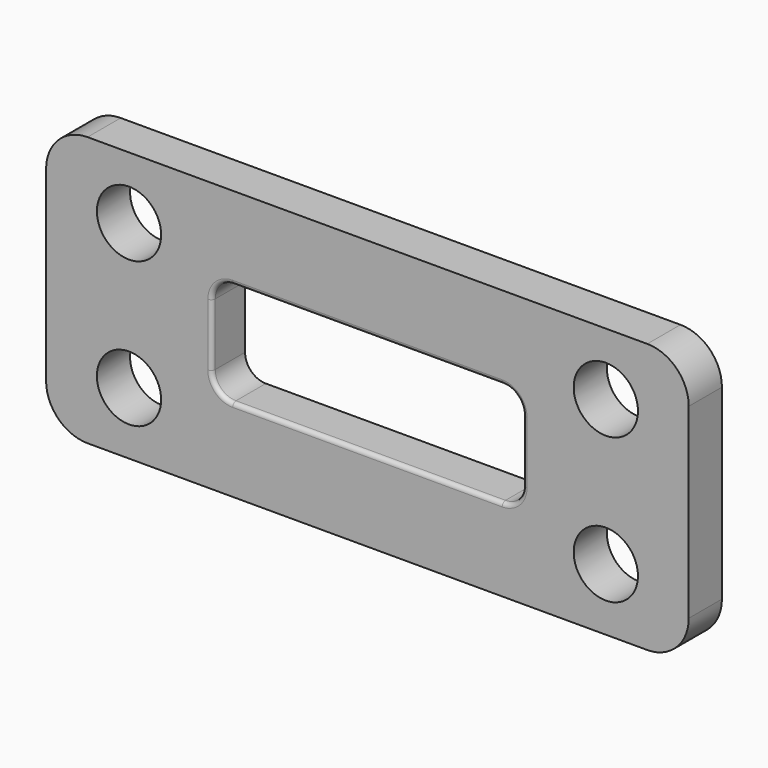
from build123d import *

# Parameters (mm, degrees)
F0_W     = 31
F0_H     = 13
F1_DEPTH = 2
F2_R     = 1.55
F3_DEPTH = 25
F4_R     = 2
F5_W     = 15
F5_H     = 5
F6_DEPTH = 25
F7_R     = 1
F8_R     = 0.2


with BuildPart() as f1:
    # F0 (on Front) → F1 (new body)
    with BuildSketch(Plane.XZ):
        with Locations((15.5, 6.5)):
            Rectangle(F0_W, F0_H)
    extrude(amount=F1_DEPTH)

    # F2 (on face) → F3 (cut)
    with BuildSketch(Plane.XZ.offset(2)):
        with Locations((4, 10)):
            Circle(F2_R)
        with Locations((4, 3)):
            Circle(F2_R)
        with Locations((27, 10)):
            Circle(F2_R)
        with Locations((27, 3)):
            Circle(F2_R)
    extrude(amount=-F3_DEPTH, mode=Mode.SUBTRACT)

    # F4
    f4_edges = [f1.edges().sort_by_distance(p)[0] for p in [
        (31, -1, 13),
        (31, -1, 0),
        (0, -1, 0),
        (0, -1, 13),
    ]]
    fillet(f4_edges, radius=F4_R)

    # F5 (on face) → F6 (cut)
    with BuildSketch(Plane.XZ.offset(2)):
        with Locations((15.5, 6.5)):
            Rectangle(F5_W, F5_H)
    extrude(amount=-F6_DEPTH, mode=Mode.SUBTRACT)

    # F7
    f7_edges = [f1.edges().sort_by_distance(p)[0] for p in [
        (8, -1, 9),
        (8, -1, 4),
        (23, -1, 9),
        (23, -1, 4),
    ]]
    fillet(f7_edges, radius=F7_R)

    # F8
    f8_edges = [f1.edges().sort_by_distance(p)[0] for p in [
        (15.5, -2, 9),
        (22.707107, -2, 8.707107),
        (23, -2, 6.5),
        (22.707107, -2, 4.292893),
        (15.5, -2, 4),
        (8.292893, -2, 4.292893),
        (8, -2, 6.5),
        (8.292893, -2, 8.707107),
    ]]
    fillet(f8_edges, radius=F8_R)


solid = f1.part
